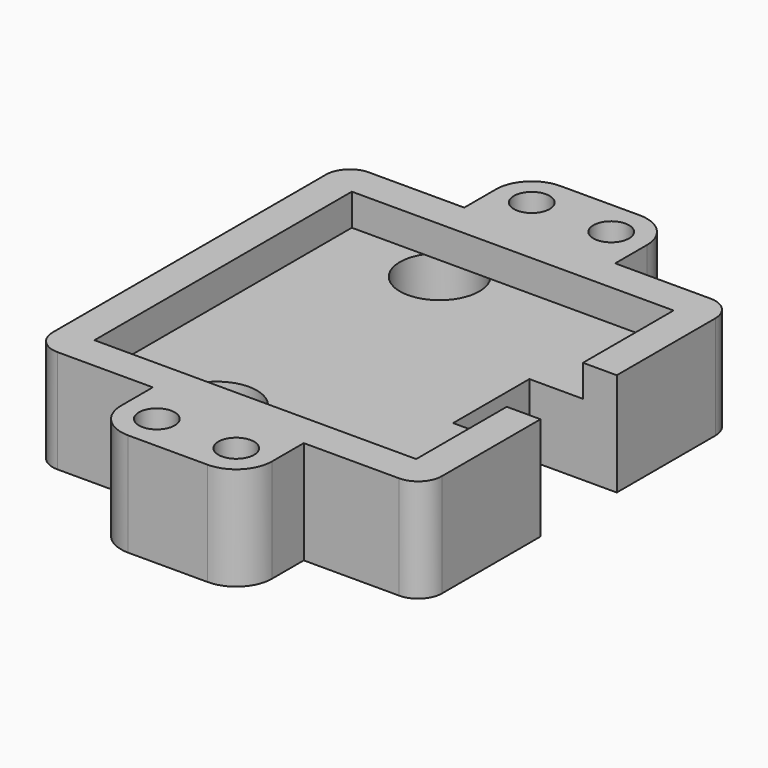
from build123d import *

# Parameters (mm, degrees)
SKETCH006_R                = 5
PAD005_DEPTH               = 9
PAD006_DEPTH               = 4
SKETCH009_R                = 2.25
PAD008_DEPTH               = 13
POCKET_DEPTH               = 13
POCKET_MIRRORED004_2_DEPTH = 13


with BuildPart() as part:
    # Sketch006 (on Face30 of Binder) → Pad005 (new body)
    with BuildSketch(Plane(origin=(0, 0, 0), x_dir=(1, 0, 0), z_dir=(0, 0, -1))):
        Polygon((-24.5, -24.5), (24.5, -24.5), (24.5, -6), (13.5, -6), (13.5, 6), (24.5, 6), (24.5, 24.5), (-24.5, 24.5), align=None)
        with Locations((-7, 17.5)):
            Circle(SKETCH006_R, mode=Mode.SUBTRACT)
        with Locations((-7, -17.5)):
            Circle(SKETCH006_R, mode=Mode.SUBTRACT)
    extrude(amount=PAD005_DEPTH)

    # Sketch007 (on Face11 of Pad005) → Pad006 (join)
    with BuildSketch(Plane.XY):
        Polygon((-20.25, 20.25), (-20.25, -20.25), (20.25, -20.25), (20.25, -6), (24.5, -6), (24.5, -24.5), (-24.5, -24.5), (-24.5, 24.5), (24.5, 24.5), (24.5, 6), (20.25, 6), (20.25, 20.25), align=None)
    extrude(amount=PAD006_DEPTH)

    # Sketch009 (on Face7 of Pad006) → Pad008 (join)
    with BuildSketch(Plane.XY.offset(4)):
        with BuildLine():
            ThreePointArc((-5, 34), (-8.18198, 32.681981), (-9.5, 29.5))
            Line((-9.5, 29.5), (-9.5, 24.5))
            Line((-9.5, 24.5), (9.5, 24.5))
            Line((9.5, 29.5), (9.5, 24.5))
            ThreePointArc((9.5, 29.5), (8.181981, 32.681981), (5, 34))
            Line((5, 34), (-5, 34))
        make_face()
        with Locations((5, 29.5)):
            Circle(SKETCH009_R, mode=Mode.SUBTRACT)
        with Locations((-5, 29.5)):
            Circle(SKETCH009_R, mode=Mode.SUBTRACT)
    pad008 = extrude(amount=-PAD008_DEPTH)

    # Mirrored001: Pad008 across Sketch009 H_Axis
    add(pad008.mirror(Plane(origin=(0, 0, 4), x_dir=(0, 0, 1), z_dir=(0, 1, 0))))

    # Sketch018 (on Face36 of Mirrored001) → Pocket (cut)
    with BuildSketch(Plane.XY.offset(4)):
        with BuildLine():
            ThreePointArc((-24.5, -21.5), (-23.62132, -23.62132), (-21.5, -24.5))
            Line((-21.5, -24.5), (-24.5, -24.5))
            Line((-24.5, -24.5), (-24.5, -21.5))
        make_face()
    pocket = extrude(amount=-POCKET_DEPTH, mode=Mode.SUBTRACT)

    # Sketch018 Mirrored004 2 → Pocket Mirrored004 2 (cut)
    with BuildSketch(Plane(origin=(0, 0, 4), x_dir=(1, 0, 0), z_dir=(0, 0, -1))):
        with BuildLine():
            ThreePointArc((-24.5, -21.5), (-23.62132, -23.62132), (-21.5, -24.5))
            Line((-21.5, -24.5), (-24.5, -24.5))
            Line((-24.5, -24.5), (-24.5, -21.5))
        make_face()
    pocket_mirrored004_2 = extrude(amount=POCKET_MIRRORED004_2_DEPTH, mode=Mode.SUBTRACT)

    # Mirrored005: Pocket, Pocket Mirrored004 2 across Sketch018 V_Axis
    add(pocket.mirror(Plane(origin=(0, 0, 4), x_dir=(0, 0, 1), z_dir=(1, 0, 0))), mode=Mode.SUBTRACT)
    add(pocket_mirrored004_2.mirror(Plane(origin=(0, 0, 4), x_dir=(0, 0, 1), z_dir=(1, 0, 0))), mode=Mode.SUBTRACT)


solid = part.part
